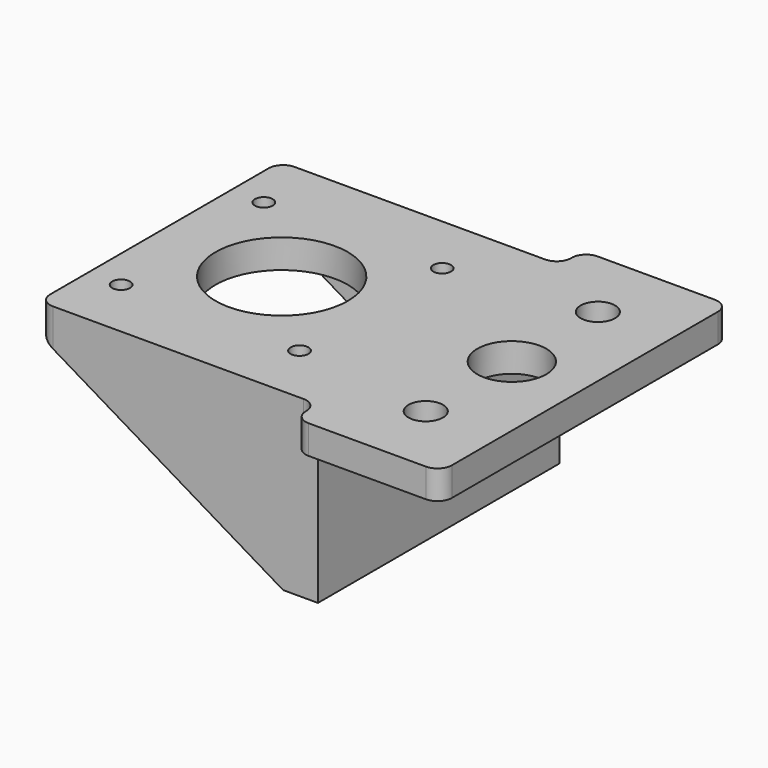
from build123d import *

# Parameters (mm, degrees)
F0_W     = 42.5
F0_H     = 42.5
F0_R     = 1.55
F0_R_2   = 11.5
F0_W_2   = 6.05
F0_R_3   = 3
F0_R_4   = 6
F1_DEPTH = 5
F2_DEPTH = 25.4
F3_SIZE2 = 42.5
F3_SIZE  = 25.4
F4_R     = 2.5


with BuildPart() as f1:
    # F0 (on Top) → F1 (new body)
    with BuildSketch(Plane.XY):
        Rectangle(F0_W, F0_H)
        with Locations((-15.5, -15.5)):
            Circle(F0_R, mode=Mode.SUBTRACT)
        with Locations((15.5, -15.5)):
            Circle(F0_R, mode=Mode.SUBTRACT)
        with Locations((-15.5, 15.5)):
            Circle(F0_R, mode=Mode.SUBTRACT)
        Circle(F0_R_2, mode=Mode.SUBTRACT)
        with Locations((15.5, 15.5)):
            Circle(F0_R, mode=Mode.SUBTRACT)
        Polygon((-21.25, 21.25), (21.25, 21.25), (27.3, 21.25), (27.3, 26.25), (-21.25, 26.25), align=None)
        with Locations((24.275, 0)):
            Rectangle(F0_W_2, F0_H)
        Polygon((27.3, -21.25), (21.25, -21.25), (-21.25, -21.25), (-21.25, -26.25), (27.3, -26.25), align=None)
        Polygon((27.3, 26.25), (27.3, 21.25), (27.3, -21.25), (27.3, -26.25), (27.3, -31.4), (52.7, -31.4), (52.7, 31.4), (27.3, 31.4), align=None)
        with Locations((40, -18.7)):
            Circle(F0_R_3, mode=Mode.SUBTRACT)
        with Locations((40, 0)):
            Circle(F0_R_4, mode=Mode.SUBTRACT)
        with Locations((40, 18.7)):
            Circle(F0_R_3, mode=Mode.SUBTRACT)
    extrude(amount=F1_DEPTH)

    # F0 (on Top) → F2 (join)
    with BuildSketch(Plane.XY):
        Polygon((27.3, -21.25), (21.25, -21.25), (-21.25, -21.25), (-21.25, -26.25), (27.3, -26.25), align=None)
        with Locations((24.275, 0)):
            Rectangle(F0_W_2, F0_H)
        Polygon((-21.25, 21.25), (21.25, 21.25), (27.3, 21.25), (27.3, 26.25), (-21.25, 26.25), align=None)
    extrude(amount=-F2_DEPTH)

    # F3
    f3_edges = [f1.edges().sort_by_distance(p)[0] for p in [
        (-21.25, -23.75, -25.4),
        (-21.25, 23.75, -25.4),
    ]]
    f3_side = f1.faces().sort_by_distance((-21.25, 0, 4.393336))[0]
    chamfer(f3_edges, length=F3_SIZE, length2=F3_SIZE2, reference=f3_side)

    # F4
    f4_edges = [f1.edges().sort_by_distance(p)[0] for p in [
        (27.3, 31.4, 2.5),
        (52.7, 31.4, 2.5),
        (27.3, 26.25, 2.5),
        (-21.25, 26.25, 2.5),
        (52.7, -31.4, 2.5),
        (27.3, -31.4, 2.5),
        (27.3, -26.25, 2.5),
        (-21.25, -26.25, 2.5),
    ]]
    fillet(f4_edges, radius=F4_R)


solid = f1.part
